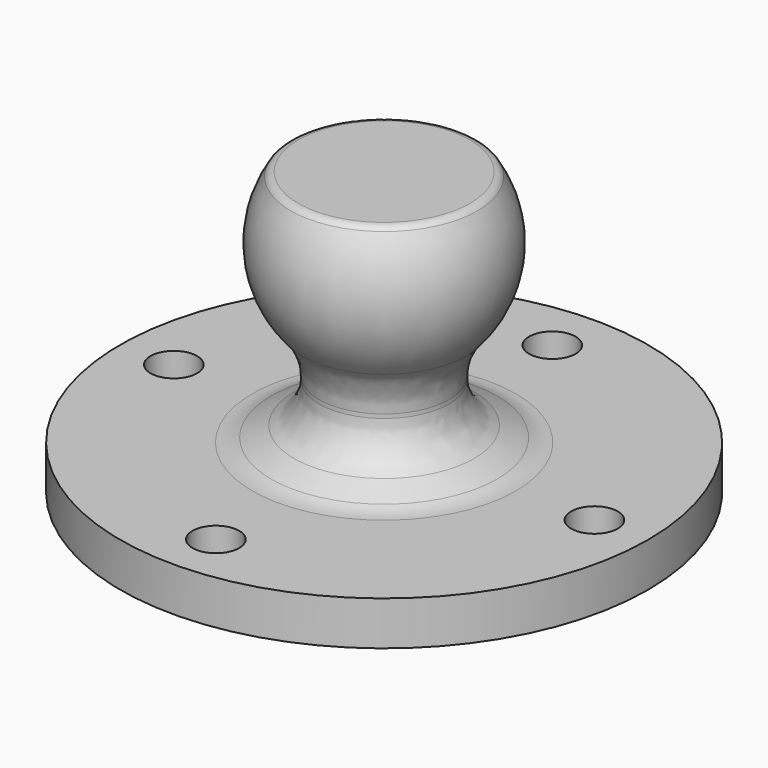
from build123d import *

# Parameters (mm, degrees)
F2_R     = 2.65
F3_DEPTH = 25
F4_R     = 7.429877
F5_R     = 5
F6_R     = 1


with BuildPart() as f1:
    # F0 (on Front) → F1 (revolve)
    with BuildSketch(Plane.XZ):
        with BuildLine():
            Line((0, 25), (0, 0))
            Line((0, 0), (30, 0))
            Line((30, 0), (30, 5))
            Line((30, 5), (13.847623, 5))
            Line((13.847623, 5), (7.389601, 8.067148))
            Line((7.389601, 8.067148), (7.389601, 14.918145))
            ThreePointArc((7.389601, 14.918145), (12.323801, 22.908607), (10.301951, 32.079535))
            Line((10.301951, 32.079535), (0, 32.079535))
            Line((0, 32.079535), (0, 25))
        make_face()
    revolve(axis=Axis((0, 0, 12.5), (0, 0, 1)))

    # F2 (on face) → F3 (cut)
    with BuildSketch(Plane(origin=(0, 0, 0), x_dir=(1, 0, 0), z_dir=(0, 0, -1))):
        with Locations((0, 23.9)):
            Circle(F2_R)
        with Locations((23.9, 0)):
            Circle(F2_R)
        with Locations((0, -23.9)):
            Circle(F2_R)
        with Locations((-23.9, 0)):
            Circle(F2_R)
    extrude(amount=-F3_DEPTH, mode=Mode.SUBTRACT)

    # F4
    f4_edges = [f1.edges().sort_by_distance(p)[0] for p in [
        (-7.389601, 0, 14.918145),
    ]]
    fillet(f4_edges, radius=F4_R)

    # F5
    f5_edges = [f1.edges().sort_by_distance(p)[0] for p in [
        (-7.389601, 0, 8.067148),
        (-13.847623, 0, 5),
    ]]
    fillet(f5_edges, radius=F5_R)

    # F6
    f6_edges = [f1.edges().sort_by_distance(p)[0] for p in [
        (-10.301951, 0, 32.079535),
    ]]
    fillet(f6_edges, radius=F6_R)


solid = f1.part
